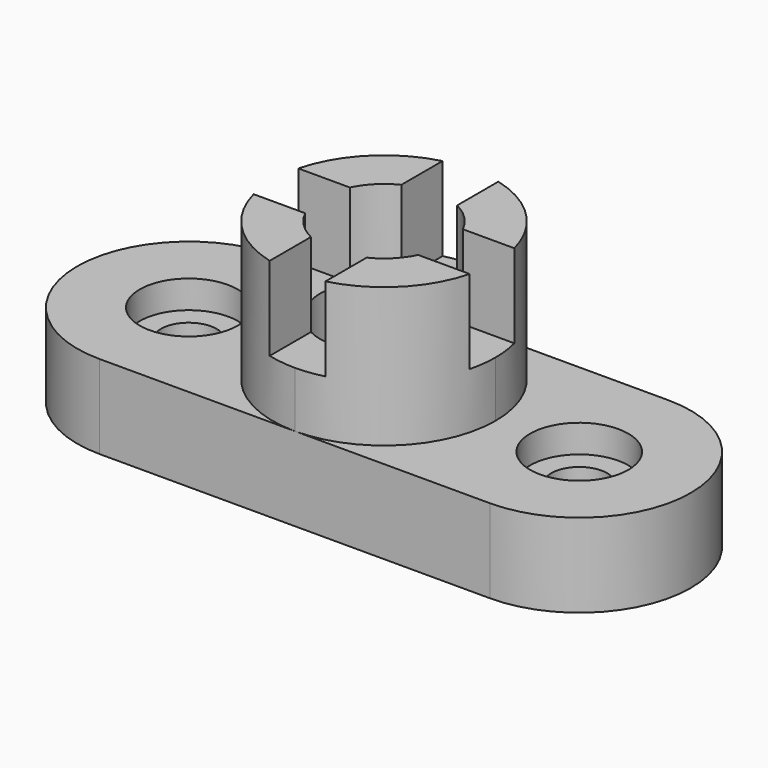
from build123d import *

# Parameters (mm, degrees)
F1_DEPTH = 19.05
F2_R     = 6.35
F3_DEPTH = 19.051
F2_R_2   = 11.176
F4_DEPTH = 6.35
F5_DEPTH = 31.75
F7_DEPTH = 19.05
F8_DEPTH = 50.801


with BuildPart() as f1:
    # F0 (on Top) → F1 (new body)
    with BuildSketch(Plane.XY):
        with BuildLine():
            ThreePointArc((-44.45, 50.8), (-69.85, 25.4), (-44.45, 0))
            Line((-44.45, 0), (44.45, 0))
            ThreePointArc((44.45, 0), (69.85, 25.4), (44.45, 50.8))
            Line((44.45, 50.8), (-44.45, 50.8))
        make_face()
    extrude(amount=F1_DEPTH)

    # F2 (on face) → F3 (cut, through all)
    with BuildSketch(Plane.XY.offset(19.05)):
        with Locations((-44.45, 25.4)):
            Circle(F2_R)
        with Locations((44.45, 25.4)):
            Circle(F2_R)
    extrude(amount=-F3_DEPTH, mode=Mode.SUBTRACT)

    # F2 (on face) → F4 (cut)
    with BuildSketch(Plane.XY.offset(19.05)):
        with Locations((-44.45, 25.4)):
            Circle(F2_R_2)
        with Locations((-44.45, 25.4)):
            Circle(F2_R, mode=Mode.SUBTRACT)
        with Locations((44.45, 25.4)):
            Circle(F2_R_2)
        with Locations((44.45, 25.4)):
            Circle(F2_R, mode=Mode.SUBTRACT)
    extrude(amount=-F4_DEPTH, mode=Mode.SUBTRACT)

    # F2 (on face) → F5 (join)
    with BuildSketch(Plane.XY.offset(19.05)):
        with BuildLine():
            ThreePointArc((0, 0), (17.960512, 7.439488), (25.4, 25.4))
            ThreePointArc((25.4, 25.4), (17.960512, 43.360512), (0, 50.8))
            ThreePointArc((0, 50.8), (-25.4, 25.4), (0, 0))
        make_face()
    extrude(amount=F5_DEPTH)

    # F6 (on face) → F7 (cut)
    with BuildSketch(Plane.XY.offset(50.8)):
        with BuildLine():
            Line((-12.869681, 31.75), (-24.593444, 31.75))
            ThreePointArc((-24.593444, 31.75), (-25.4, 25.4), (-24.593444, 19.05))
            Line((-24.593444, 19.05), (-12.869681, 19.05))
            ThreePointArc((-12.869681, 19.05), (-14.351, 25.4), (-12.869681, 31.75))
        make_face()
        with BuildLine():
            ThreePointArc((6.35, 49.993444), (0, 50.8), (-6.35, 49.993444))
            Line((-6.35, 49.993444), (-6.35, 38.269681))
            ThreePointArc((-6.35, 38.269681), (0, 39.751), (6.35, 38.269681))
            Line((6.35, 38.269681), (6.35, 49.993444))
        make_face()
        with BuildLine():
            ThreePointArc((25.4, 25.4), (25.197554, 28.600509), (24.593444, 31.75))
            Line((24.593444, 31.75), (12.869681, 31.75))
            ThreePointArc((12.869681, 31.75), (13.975765, 28.660246), (14.351, 25.4))
            ThreePointArc((14.351, 25.4), (13.975765, 22.139754), (12.869681, 19.05))
            Line((12.869681, 19.05), (24.593444, 19.05))
            ThreePointArc((24.593444, 19.05), (25.197554, 22.199491), (25.4, 25.4))
        make_face()
        with BuildLine():
            Line((-6.35, 12.530319), (-6.35, 0.806556))
            ThreePointArc((-6.35, 0.806556), (0, 0), (6.35, 0.806556))
            Line((6.35, 0.806556), (6.35, 12.530319))
            ThreePointArc((6.35, 12.530319), (0, 11.049), (-6.35, 12.530319))
        make_face()
    extrude(amount=-F7_DEPTH, mode=Mode.SUBTRACT)

    # F6 (on face) → F8 (cut, through all)
    with BuildSketch(Plane.XY.offset(50.8)):
        with BuildLine():
            ThreePointArc((6.35, 38.269681), (0, 39.751), (-6.35, 38.269681))
            ThreePointArc((-6.35, 38.269681), (-10.147689, 35.547689), (-12.869681, 31.75))
            ThreePointArc((-12.869681, 31.75), (-14.351, 25.4), (-12.869681, 19.05))
            ThreePointArc((-12.869681, 19.05), (-10.147689, 15.252311), (-6.35, 12.530319))
            ThreePointArc((-6.35, 12.530319), (0, 11.049), (6.35, 12.530319))
            ThreePointArc((6.35, 12.530319), (10.147689, 15.252311), (12.869681, 19.05))
            ThreePointArc((12.869681, 19.05), (13.975765, 22.139754), (14.351, 25.4))
            ThreePointArc((14.351, 25.4), (13.975765, 28.660246), (12.869681, 31.75))
            ThreePointArc((12.869681, 31.75), (10.147689, 35.547689), (6.35, 38.269681))
        make_face()
    extrude(amount=-F8_DEPTH, mode=Mode.SUBTRACT)


solid = f1.part
